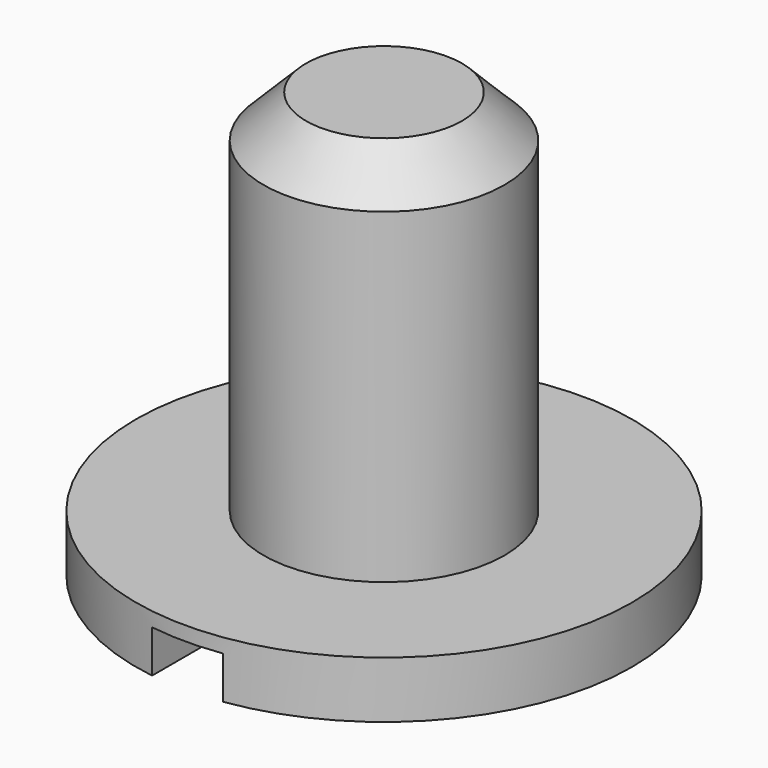
from build123d import *

# Parameters (mm, degrees)
F0_R     = 1.75
F1_DEPTH = 0.4
F2_R     = 0.85
F3_DEPTH = 2.6
F5_DEPTH = 0.3
F6_SIZE2 = 0.3
F6_SIZE  = 0.3
F7_SCALE = 3


with BuildPart() as f1:
    # F0 (on Top) → F1 (new body)
    with BuildSketch(Plane.XY):
        Circle(F0_R)
    extrude(amount=F1_DEPTH)

    # F2 (on face) → F3 (join)
    with BuildSketch(Plane.XY.offset(0.4)):
        Circle(F2_R)
    extrude(amount=F3_DEPTH)

    # F4 (on face) → F5 (cut)
    with BuildSketch(Plane(origin=(0, 0, 0), x_dir=(1, 0, 0), z_dir=(0, 0, -1))):
        with BuildLine():
            ThreePointArc((0.25, 1.7320508076), (0, 1.75), (-0.25, 1.7320508076))
            Line((-0.25, 1.7320508076), (-0.25, -1.7320508076))
            ThreePointArc((-0.25, -1.7320508076), (0, -1.75), (0.25, -1.7320508076))
            Line((0.25, -1.7320508076), (0.25, 1.7320508076))
        make_face()
    extrude(amount=-F5_DEPTH, mode=Mode.SUBTRACT)

    # F6
    f6_edges = [f1.edges().sort_by_distance(p)[0] for p in [
        (-0.85, 0, 3),
    ]]
    chamfer(f6_edges, length=F6_SIZE, length2=F6_SIZE2)


with BuildPart() as f1_1:
    # F7: moved
    add(f1.part.scale(F7_SCALE))


solid = f1_1.part
